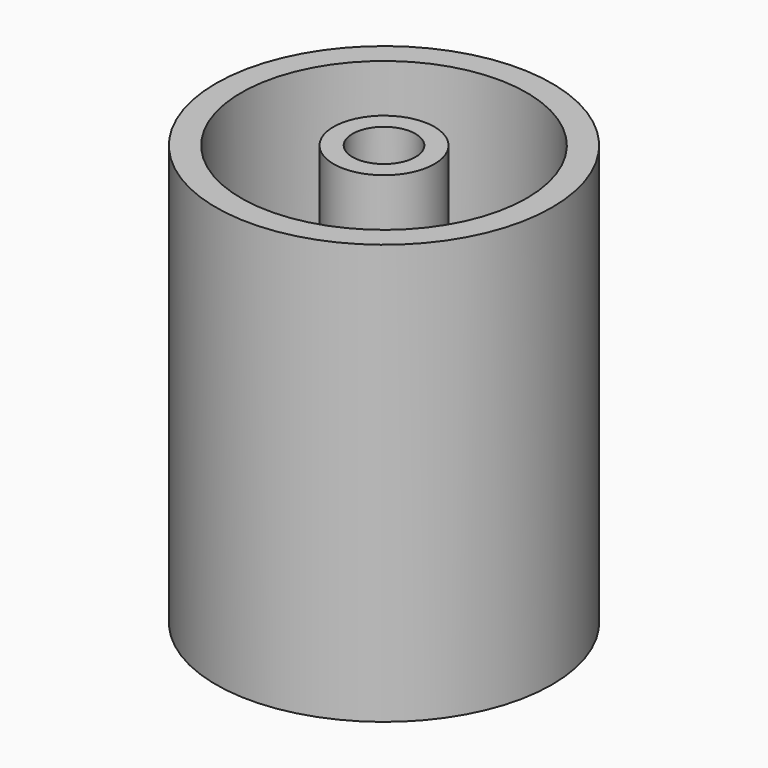
from build123d import *

# Parameters (mm, degrees)
F0_R      = 6
F0_R_2    = 5
F0_R_3    = 3.75
F1_DEPTH  = 4
F2_R      = 6
F2_R_2    = 5
F3_DEPTH  = 42
F4_R      = 6
F4_R_2    = 5
F4_R_3    = 3.75
F5_DEPTH  = 4
F6_DEPTH  = 3
F7_R      = 20
F7_R_2    = 6
F8_DEPTH  = 4
F9_R      = 20
F9_R_2    = 17
F10_DEPTH = 46


with BuildPart() as f1:
    # F0 (on Top) → F1 (new body)
    with BuildSketch(Plane.XY):
        Circle(F0_R)
        Circle(F0_R_2, mode=Mode.SUBTRACT)
        Circle(F0_R_2)
        Circle(F0_R_3, mode=Mode.SUBTRACT)
    extrude(amount=F1_DEPTH)

    # F2 (on face) → F3 (join)
    with BuildSketch(Plane.XY.offset(4)):
        Circle(F2_R)
        Circle(F2_R_2, mode=Mode.SUBTRACT)
    extrude(amount=F3_DEPTH)

    # F4 (on face) → F5 (join)
    with BuildSketch(Plane.XY.offset(46)):
        Circle(F4_R)
        Circle(F4_R_2, mode=Mode.SUBTRACT)
        Circle(F4_R_2)
        Circle(F4_R_3, mode=Mode.SUBTRACT)
    extrude(amount=F5_DEPTH)

    # F7 (on Top) → F8 (join)
    with BuildSketch(Plane.XY):
        Circle(F7_R)
        Circle(F7_R_2, mode=Mode.SUBTRACT)
    extrude(amount=F8_DEPTH)

    # F9 (on face) → F10 (join)
    with BuildSketch(Plane.XY.offset(4)):
        Circle(F9_R)
        Circle(F9_R_2, mode=Mode.SUBTRACT)
    extrude(amount=F10_DEPTH)


with BuildPart() as f6:
    # F0 (on Top) → F6 (new body)
    with BuildSketch(Plane.XY):
        Circle(F0_R)
        Circle(F0_R_2, mode=Mode.SUBTRACT)
        Circle(F0_R_2)
        Circle(F0_R_3, mode=Mode.SUBTRACT)
    extrude(amount=F6_DEPTH)


solid = Compound([f1.part, f6.part])
